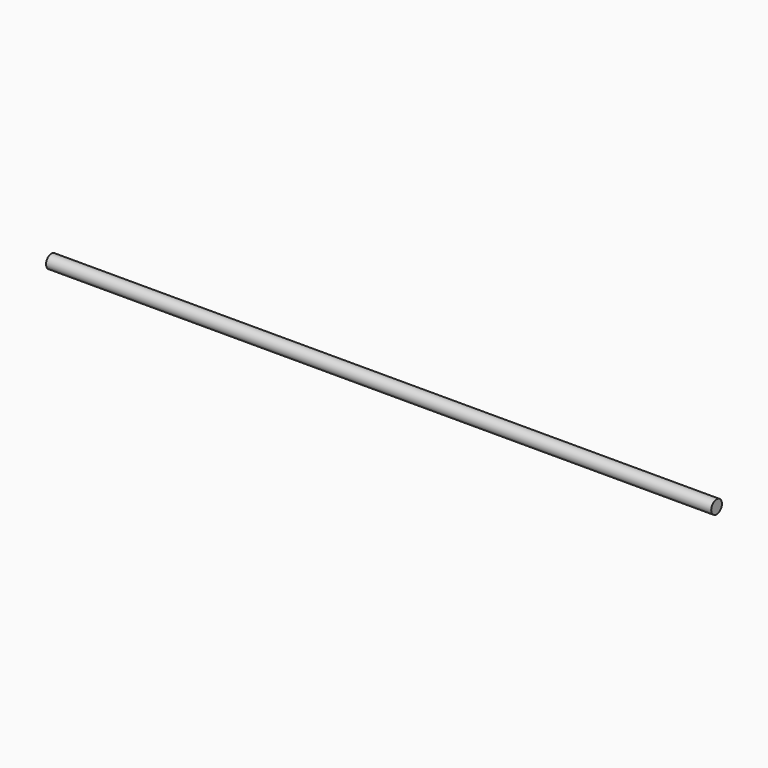
from build123d import *

# Parameters (mm, degrees)
F2_R = 12.7


with BuildPart() as f3:
    # F3: sweep along a path in F0
    with BuildLine(Plane.XY) as f3_path:
        Line((-650.308893, 0), (613.341107, 0))
    # F2 (on plane+point) → F3 (sweep)
    with BuildSketch(Plane.YZ.offset(613.341107)):
        Circle(F2_R)
    sweep(path=f3_path.line)


solid = f3.part
